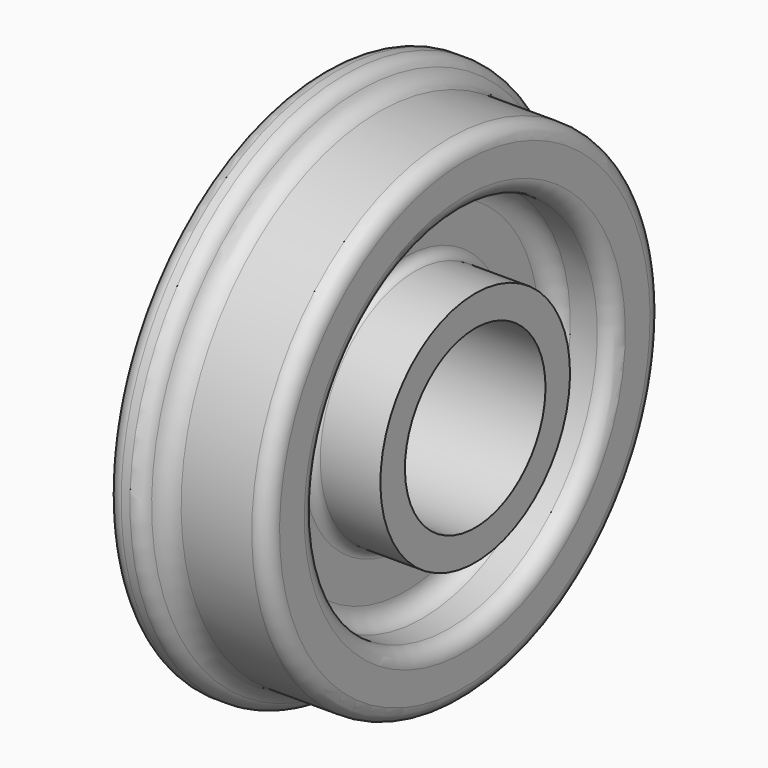
from build123d import *


with BuildPart() as f1:
    # F0 (on Front) → F1 (revolve)
    with BuildSketch(Plane.XZ):
        with BuildLine():
            ThreePointArc((-48.047032, 90.255277), (-43.136156, 86.806497), (-41.251235, 81.109317))
            Line((-41.251235, 81.109317), (-41.251235, 57.448643))
            ThreePointArc((-41.251235, 57.448643), (-42.268521, 53.338764), (-46.094241, 51.524975))
            Line((-46.094241, 51.524975), (-66.548, 51.524975))
            Line((-66.548, 51.524975), (-66.548, 36.1315))
            Line((-66.548, 36.1315), (0, 36.1315))
            Line((0, 36.1315), (0, 48.75345))
            Line((0, 48.75345), (-24.736326, 48.75345))
            ThreePointArc((-24.736326, 48.75345), (-27.533969, 49.912272), (-28.692791, 52.709915))
            Line((-28.692791, 52.709915), (-28.692791, 68.512248))
            ThreePointArc((-28.692791, 68.512248), (-26.697372, 73.6482), (-21.757918, 76.089818))
            Line((-21.757918, 76.089818), (-10.639275, 76.089818))
            ThreePointArc((-10.639275, 76.089818), (-6.114765, 77.984337), (-4.290025, 82.537437))
            Line((-4.290025, 82.537437), (-4.290025, 95.25))
            ThreePointArc((-4.290025, 95.25), (-6.149897, 99.740128), (-10.640025, 101.6))
            Line((-10.640025, 101.6), (-39.705658, 101.6))
            ThreePointArc((-39.705658, 101.6), (-44.45133, 103.024518), (-47.627976, 106.827092))
            ThreePointArc((-47.627976, 106.827092), (-49.968845, 109.629209), (-53.46593, 110.678936))
            Line((-53.46593, 110.678936), (-57.112746, 110.678936))
            ThreePointArc((-57.112746, 110.678936), (-61.602875, 108.819064), (-63.462746, 104.328936))
            Line((-63.462746, 104.328936), (-63.462746, 96.605277))
            ThreePointArc((-63.462746, 96.605277), (-61.602875, 92.115149), (-57.112746, 90.255277))
            Line((-57.112746, 90.255277), (-48.047032, 90.255277))
        make_face()
    revolve(axis=Axis((-28.75904, 0, 0), (-1, 0, 0)))


solid = f1.part
